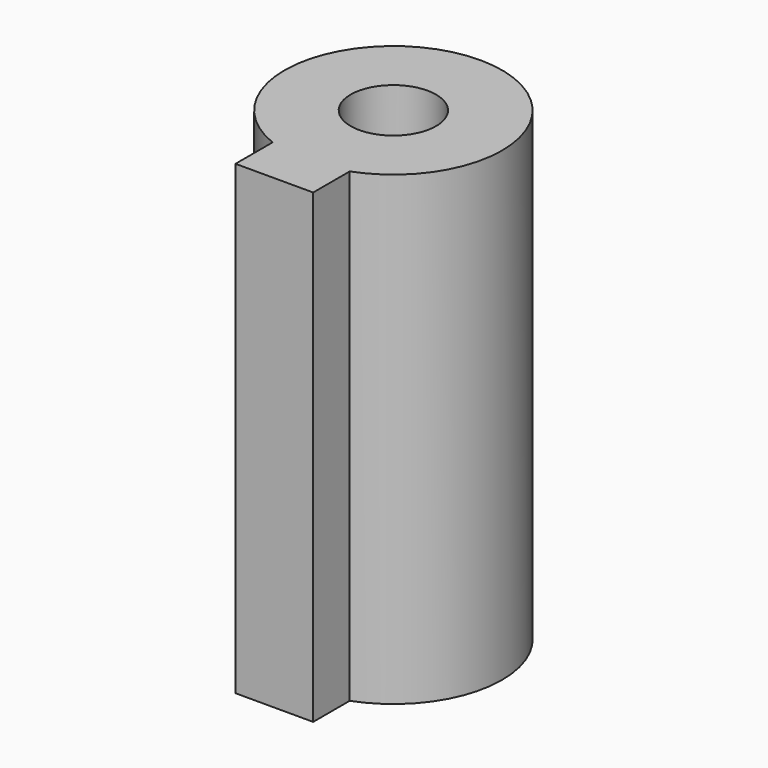
from build123d import *

# Parameters (mm, degrees)
F1_DEPTH = 30
F3_D     = 5.5
F3_DEPTH = 12
F3_TIP   = 1.6523667023


with BuildPart() as f1:
    # F0 (on Top) → F1 (new body)
    with BuildSketch(Plane.XY):
        with BuildLine():
            Line((2.4379568888, -9.5), (2.4379568888, -6.5617349999))
            ThreePointArc((2.4379568888, -6.5617349999), (0.0664242114, 6.9996848375), (-2.5620431112, -6.5142869983))
            Line((-2.5620431112, -6.5142869983), (-2.5620431112, -9.5))
            Line((-2.5620431112, -9.5), (2.4379568888, -9.5))
        make_face()
    extrude(amount=F1_DEPTH)

    # F3
    with Locations(Plane.XY.offset(30)):
        with Locations((0, 0)):
            Hole(F3_D / 2, depth=F3_DEPTH)
            with Locations((0, 0, -(F3_DEPTH + F3_TIP / 2))):  # 118° drill point
                Cone(0, F3_D / 2, F3_TIP, mode=Mode.SUBTRACT)


solid = f1.part
